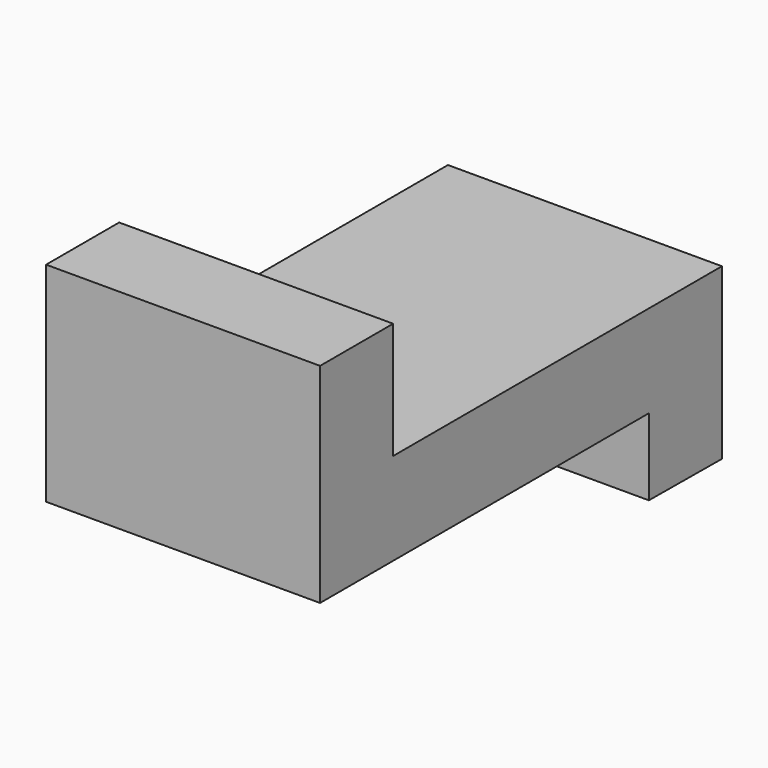
from build123d import *

# Parameters (mm, degrees)
F1_DEPTH      = 33.3375
F1_DEPTH_BACK = 33.3375


with BuildPart() as f1:
    # F0 (on Right) → F1 (new body, two sides)
    with BuildSketch(Plane.YZ) as f1_sk:
        Polygon((24.710872, -34.028981), (46.935321, -34.185491), (46.935321, 7.089509), (-53.077179, 7.089509), (-53.077179, 35.434436), (-75.302179, 35.434436), (-75.302179, -15.365564), (24.710872, -15.365564), align=None)
    extrude(amount=F1_DEPTH)
    extrude(f1_sk.sketch, amount=-F1_DEPTH_BACK)


solid = f1.part
